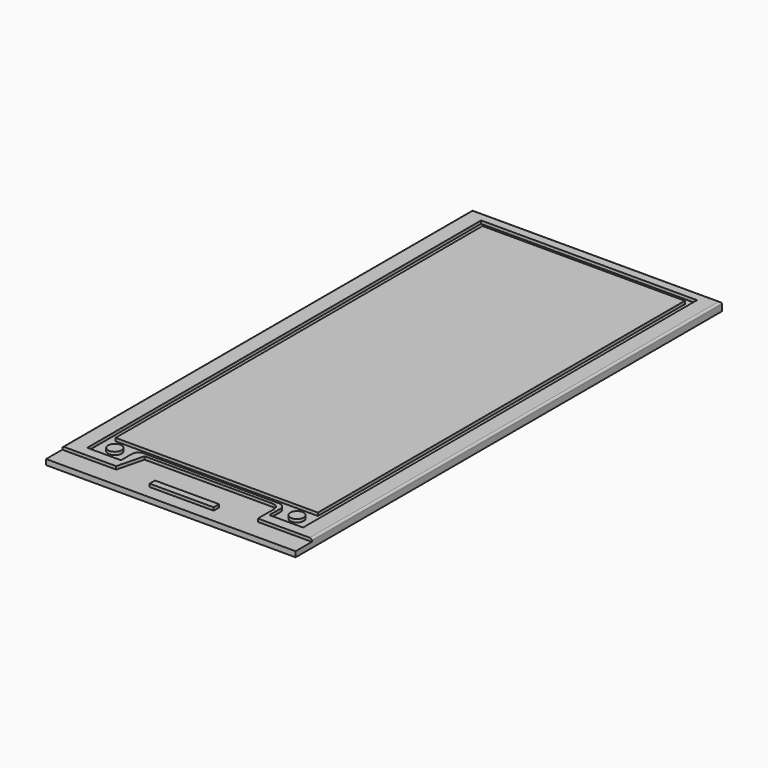
from build123d import *

# Parameters (mm, degrees)
SKETCH001002046_W = 37
SKETCH001002046_H = 79
PAD033_DEPTH      = 1.25
SKETCH001002042_R = 1
SKETCH001002042_W = 30
SKETCH001002042_H = 68
POCKET017_DEPTH   = 1
SKETCH001002049_W = 9.5
SKETCH001002049_H = 1
POCKET018_DEPTH   = 1
FILLET038_R       = 0.3


with BuildPart() as part:
    # Sketch001002046 → Pad033 (new body)
    with BuildSketch(Plane.XY):
        Rectangle(SKETCH001002046_W, SKETCH001002046_H)
    extrude(amount=PAD033_DEPTH)

    # Sketch001002042 → Pocket017 (cut)
    with BuildSketch(Plane.XY.offset(0.8)):
        with BuildLine():
            Line((-16, 38), (16, 38))
            Line((16, 38), (16, -35))
            Line((11, -35), (16, -35))
            Line((11, -33), (11, -35))
            ThreePointArc((11, -33), (10.707107, -32.292893), (10, -32))
            Line((-10, -32), (10, -32))
            ThreePointArc((-10, -32), (-10.707107, -32.292893), (-11, -33))
            Line((-11, -35), (-11, -33))
            Line((-16, -35), (-11, -35))
            Line((-16, -35), (-16, 38))
        make_face()
        with Locations((-13.5, -33)):
            Circle(SKETCH001002042_R, mode=Mode.SUBTRACT)
        with Locations((13.5, -33)):
            Circle(SKETCH001002042_R, mode=Mode.SUBTRACT)
        with Locations((0, 3)):
            Rectangle(SKETCH001002042_W, SKETCH001002042_H, mode=Mode.SUBTRACT)
    extrude(amount=POCKET017_DEPTH, mode=Mode.SUBTRACT)

    # Sketch001002049 → Pocket018 (cut)
    with BuildSketch(Plane.XY.offset(0.8)):
        with BuildLine():
            Line((-18.5, -39.5), (18.5, -39.5))
            Line((18.5, -39.5), (18.5, -36.5))
            Line((18.5, -36.5), (10.5, -36.5))
            Line((10.5, -36.5), (10.5, -33.5))
            ThreePointArc((10.5, -33.5), (10.207107, -32.792893), (9.5, -32.5))
            Line((9.5, -32.5), (-9.5, -32.5))
            Line((-9.5, -32.5), (-10.5, -36.5))
            Line((-10.5, -36.5), (-18.5, -36.5))
            Line((-18.5, -36.5), (-18.5, -39.5))
        make_face()
        with Locations((0, -37)):
            Rectangle(SKETCH001002049_W, SKETCH001002049_H, mode=Mode.SUBTRACT)
    extrude(amount=POCKET018_DEPTH, mode=Mode.SUBTRACT)

    # Fillet038
    fillet038_edges = [part.edges().sort_by_distance(p)[0] for p in [
        (0, 39.5, 1.25),
        (-18.5, 1.5, 1.25),
        (18.5, 1.5, 1.25),
    ]]
    fillet(fillet038_edges, radius=FILLET038_R)


solid = part.part
